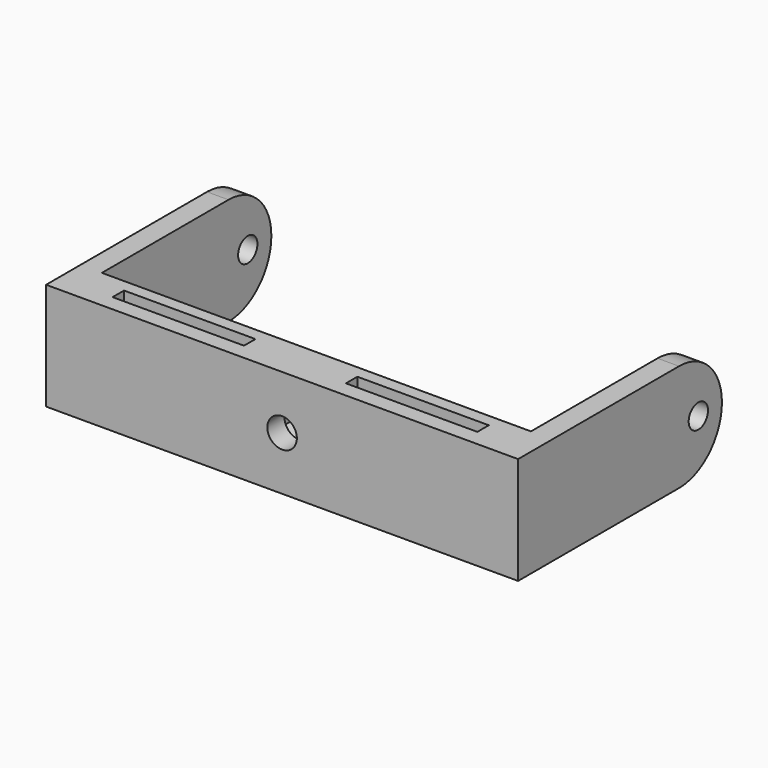
from build123d import *

# Parameters (mm, degrees)
SKETCH005_W             = 80
SKETCH005_H             = 20
SKETCH005_R             = 2.75
PAD010_DEPTH            = 8
POCKET009_DEPTH         = 4
SKETCH011_W             = 24.5
SKETCH011_H             = 2.666667
POCKET010_DEPTH         = 185.699521
SKETCH017_R             = 2.25
PAD011_DEPTH            = 4
BODY002_PLACEMENT_ANGLE = 180


with BuildPart() as part:
    # Sketch005 → Pad010 (new body)
    with BuildSketch(Plane.XZ):
        Rectangle(SKETCH005_W, SKETCH005_H)
        Circle(SKETCH005_R, mode=Mode.SUBTRACT)
    extrude(amount=PAD010_DEPTH)

    # Sketch007 → Pocket009 (cut)
    with BuildSketch(Plane.XZ.offset(8)):
        Polygon((4.113621, 2.375), (0, 4.75), (-4.113621, 2.375), (-4.113621, -2.375), (0, -4.75), (4.113621, -2.375), align=None)
    extrude(amount=-POCKET009_DEPTH, mode=Mode.SUBTRACT)

    # Sketch011 → Pocket010 (cut, through all)
    with BuildSketch(Plane(origin=(0, 0, 10), x_dir=(-1, 0, 0), z_dir=(0, 0, 1))):
        with Locations((-21.75, 4.333334)):
            Rectangle(SKETCH011_W, SKETCH011_H)
    pocket010 = extrude(amount=-POCKET010_DEPTH, mode=Mode.SUBTRACT)

    # Sketch017 (on Face4 of Pad010) → Pad011 (join)
    with BuildSketch(Plane(origin=(-40, 0, 0), x_dir=(0, 0, -1), z_dir=(-1, 0, 0))):
        with BuildLine():
            Line((-10, 0), (10, 0))
            Line((10, 0), (10, 37.5))
            ThreePointArc((10, 37.5), (0, 47.5), (-10, 37.5))
            Line((-10, 37.5), (-10, 0))
        make_face()
        with Locations((0, 42)):
            Circle(SKETCH017_R, mode=Mode.SUBTRACT)
    pad011 = extrude(amount=PAD011_DEPTH)

    # Mirrored007: Pad011 across YZ
    add(pad011.mirror(Plane.YZ))

    # Mirrored008: Pocket010 across YZ
    add(pocket010.mirror(Plane.YZ), mode=Mode.SUBTRACT)


with BuildPart() as part_1:
    # Body002 placement: moved
    add(part.part.moved(Location((0, 2, 9))).rotate(Axis((0, 2, 9), (1, 0, 0)), BODY002_PLACEMENT_ANGLE))


solid = part_1.part
